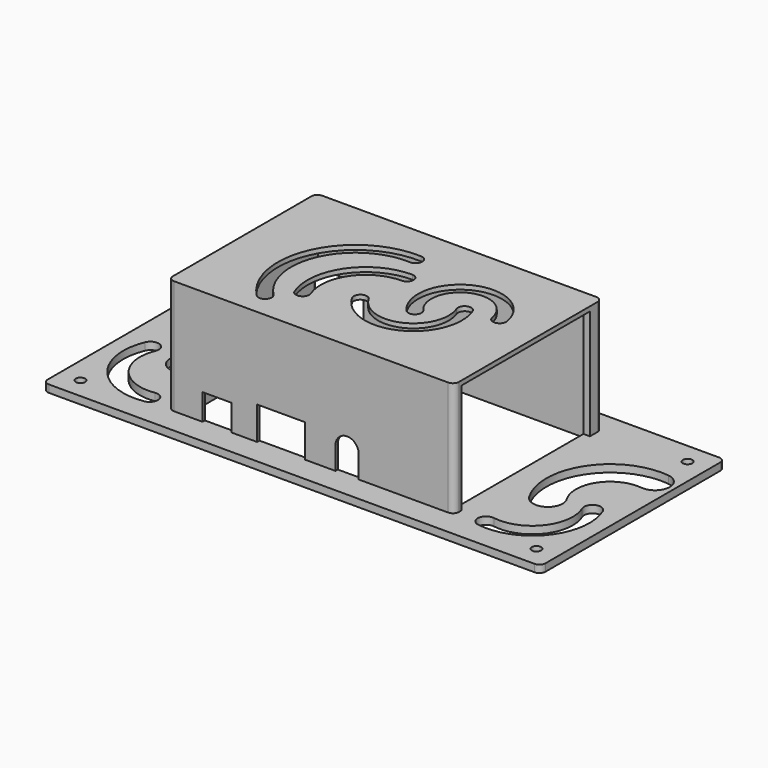
from build123d import *

# Parameters (mm, degrees)
SKETCH001_W          = 167.35
SKETCH001_H          = 77.5
SKETCH001_W_2        = 91
SKETCH001_H_2        = 58.3
PAD_DEPTH            = 2.5
SKETCH_R             = 1.58
POCKET_DEPTH         = 0.001
POCKET_DEPTH_BACK    = 2.501
SKETCH002_W          = 96.2
SKETCH002_H          = 62.3
SKETCH002_W_2        = 91
SKETCH002_H_2        = 58.3
PAD001_DEPTH         = 37
SKETCH003_W          = 96.2
SKETCH003_H          = 62.3
PAD002_DEPTH         = 1.5
SKETCH004_W          = 19.5
SKETCH004_H          = 21
POCKET001_DEPTH      = 9.601
SKETCH005_W          = 53.9
SKETCH005_H          = 37
POCKET002_DEPTH      = 48.5
SKETCH007_W          = 16
SKETCH007_H          = 11.1
SKETCH007_W_2        = 9.8
SKETCH007_H_2        = 8.8
POCKET003_DEPTH      = 38.751
FILLET_R             = 2
POCKET004_DEPTH      = 377.854265
POCKET004_DEPTH_BACK = 418.854265


with BuildPart() as part:
    # Sketch001 → Pad (new body)
    with BuildSketch(Plane.XY):
        Rectangle(SKETCH001_W, SKETCH001_H)
        Rectangle(SKETCH001_W_2, SKETCH001_H_2, mode=Mode.SUBTRACT)
    extrude(amount=PAD_DEPTH)

    # Sketch → Pocket (cut, two sides)
    with BuildSketch(Plane.XY) as pocket_sk:
        with Locations((-76.675, -31.75)):
            Circle(SKETCH_R)
        with Locations((-76.675, 31.75)):
            Circle(SKETCH_R)
        with Locations((76.675, 31.75)):
            Circle(SKETCH_R)
        with Locations((76.675, -31.75)):
            Circle(SKETCH_R)
    extrude(amount=-POCKET_DEPTH, mode=Mode.SUBTRACT)
    extrude(pocket_sk.sketch, amount=POCKET_DEPTH_BACK, mode=Mode.SUBTRACT)

    # Sketch002 → Pad001 (join)
    with BuildSketch(Plane.XY.offset(2.5)):
        with Locations((-0.4, 1)):
            Rectangle(SKETCH002_W, SKETCH002_H)
        Rectangle(SKETCH002_W_2, SKETCH002_H_2, mode=Mode.SUBTRACT)
    extrude(amount=PAD001_DEPTH)

    # Sketch003 → Pad002 (join)
    with BuildSketch(Plane.XY.offset(39.5)):
        with Locations((-0.4, 1)):
            Rectangle(SKETCH003_W, SKETCH003_H)
        with BuildLine():
            ThreePointArc((0, 11.892024), (-16.168632, 3.339331), (-18.197313, -14.839164))
            ThreePointArc((-18.197313, -14.839164), (-15.316051, -16.091394), (-14.063821, -13.210132))
            ThreePointArc((0, 7.449109), (-12.495952, 0.839146), (-14.063821, -13.210132))
            ThreePointArc((0, 7.449109), (2.221458, 9.670566), (0, 11.892024))
        make_face(mode=Mode.SUBTRACT)
        with BuildLine():
            ThreePointArc((-0.208963, -6.182796), (15.203911, -11.065575), (21.251521, 3.928579))
            ThreePointArc((25.403758, 5.50922), (22.537319, 6.795018), (21.251521, 3.928579))
            ThreePointArc((-4.071455, -8.378395), (17.097581, -15.084718), (25.403758, 5.50922))
            ThreePointArc((-0.208963, -6.182796), (-3.238008, -5.349349), (-4.071455, -8.378395))
        make_face(mode=Mode.SUBTRACT)
        with BuildLine():
            ThreePointArc((31.656498, 5.917571), (17.941279, 12.959928), (14.941672, -2.163047))
            ThreePointArc((11.627583, -5.122155), (14.764181, -5.299645), (14.941672, -2.163047))
            ThreePointArc((36.034044, 6.676909), (16.007515, 16.959935), (11.627583, -5.122155))
            ThreePointArc((31.656498, 5.917571), (34.22494, 4.108467), (36.034044, 6.676909))
        make_face(mode=Mode.SUBTRACT)
        with BuildLine():
            ThreePointArc((-4.63181, 21.445734), (-29.723459, 6.034298), (-24.464471, -22.938901))
            ThreePointArc((-24.464471, -22.938901), (-21.322913, -22.957951), (-21.303863, -19.816393))
            ThreePointArc((-4.849326, 17.008146), (-25.66708, 4.221761), (-21.303863, -19.816393))
            ThreePointArc((-4.849326, 17.008146), (-2.521774, 19.118182), (-4.63181, 21.445734))
        make_face(mode=Mode.SUBTRACT)
    extrude(amount=PAD002_DEPTH)

    # Sketch004 → Pocket001 (cut, through all)
    with BuildSketch(Plane.XZ.offset(-29.15)):
        with Locations((-40.015, 10.5)):
            Rectangle(SKETCH004_W, SKETCH004_H)
    extrude(amount=-POCKET001_DEPTH, mode=Mode.SUBTRACT)

    # Sketch005 → Pocket002 (cut)
    with BuildSketch(Plane.YZ):
        with Locations((0, 21)):
            Rectangle(SKETCH005_W, SKETCH005_H)
    extrude(amount=POCKET002_DEPTH, mode=Mode.SUBTRACT)

    # Sketch007 → Pocket003 (cut, through all)
    with BuildSketch(Plane(origin=(0, 0, 0), x_dir=(-1, 0, 0), z_dir=(0, 1, 0))):
        with BuildLine():
            Line((-15.6, 2.5), (-15.6, 10.1))
            ThreePointArc((-7.8, 10.1), (-11.7, 14), (-15.6, 10.1))
            Line((-7.8, 2.5), (-7.8, 10.1))
            Line((-15.6, 2.5), (-7.8, 2.5))
        make_face()
        with Locations((10.52, 8.05)):
            Rectangle(SKETCH007_W, SKETCH007_H)
        with Locations((32, 6.9)):
            Rectangle(SKETCH007_W_2, SKETCH007_H_2)
    extrude(amount=-POCKET003_DEPTH, mode=Mode.SUBTRACT)

    # Fillet
    fillet_edges = [part.edges().sort_by_distance(p)[0] for p in [
        (47.7, -30.15, 21),
        (47.7, 32.15, 21),
        (-48.5, 32.15, 30.25),
        (-48.5, -30.15, 21),
        (-83.675, -38.75, 1.25),
        (-83.675, 38.75, 1.25),
        (83.675, 38.75, 1.25),
        (83.675, -38.75, 1.25),
        (-49.765, 38.75, 1.25),
        (-30.265, 38.75, 1.25),
        (-45.5, 29.15, 1.25),
    ]]
    fillet(fillet_edges, radius=FILLET_R)

    # Sketch008 → Pocket004 (cut, two sides)
    with BuildSketch(Plane.XY) as pocket004_sk:
        with BuildLine():
            ThreePointArc((-56.80108, -10.00872), (-57.069005, 12.779324), (-77.692091, 22.477522))
            ThreePointArc((-77.692091, 22.477522), (-82.034221, 16.942851), (-76.49955, 12.60072))
            ThreePointArc((-65.292956, -4.82592), (-65.436679, 7.398302), (-76.49955, 12.60072))
            ThreePointArc((-65.292956, -4.82592), (-63.638418, -11.663258), (-56.80108, -10.00872))
        make_face()
        with BuildLine():
            ThreePointArc((-76.93054, -4.199269), (-74.278684, -23.506721), (-56.126644, -30.599921))
            ThreePointArc((-56.126644, -30.599921), (-53.792985, -27.379186), (-57.01372, -25.045527))
            ThreePointArc((-71.737576, -6.360594), (-69.860738, -20.025349), (-57.01372, -25.045527))
            ThreePointArc((-71.737576, -6.360594), (-73.253395, -2.68345), (-76.93054, -4.199269))
        make_face()
    pocket004 = extrude(amount=-POCKET004_DEPTH, mode=Mode.SUBTRACT) + extrude(pocket004_sk.sketch, amount=POCKET004_DEPTH_BACK, mode=Mode.SUBTRACT)

    # Mirrored: Pocket004 across Sketch008 V_Axis
    add(pocket004.mirror(Plane(origin=(0, 0, 0), x_dir=(0, 0, 1), z_dir=(1, 0, 0))), mode=Mode.SUBTRACT)


solid = part.part
